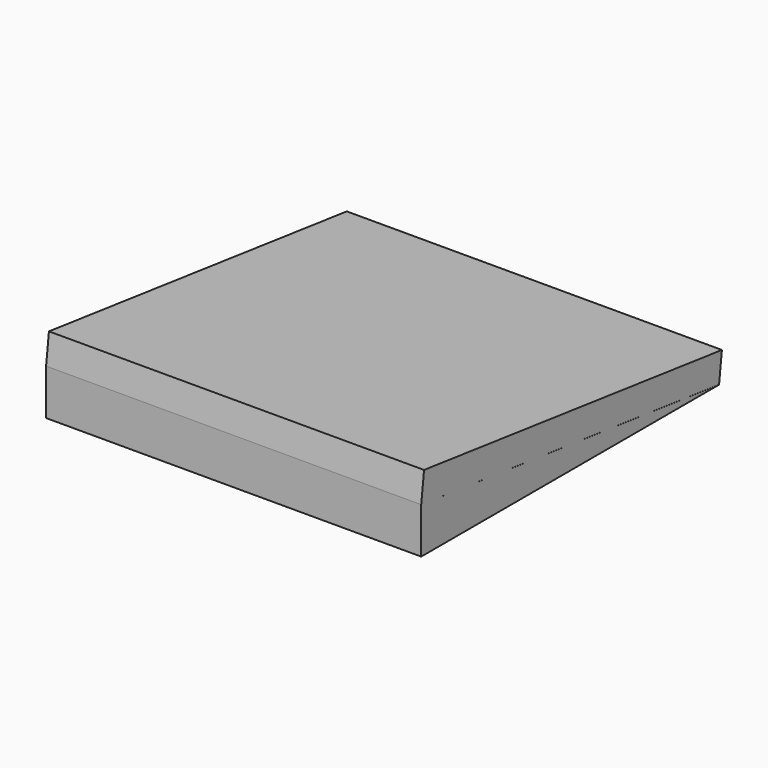
from build123d import *

# Parameters (mm, degrees)
F0_W     = 320
F0_H     = 320
F1_DEPTH = 25
F2_ANGLE = 7
F4_DEPTH = 160


with BuildPart() as f1:
    # F0 (on Top) → F1 (new body)
    with BuildSketch(Plane.XY):
        Rectangle(F0_W, F0_H)
    extrude(amount=F1_DEPTH)


with BuildPart() as f1_1:
    # F2: moved
    add(f1.part.rotate(Axis((0, -160, 0), (-1, 0, 0)), F2_ANGLE))

    # F3 (on Right) → F4 (join, symmetric)
    with BuildSketch(Plane.YZ):
        Polygon((157.52013, -39.052658), (-159.990668, 0), (-159.990668, -39.052658), align=None)
    extrude(amount=F4_DEPTH, both=True)


solid = f1_1.part
